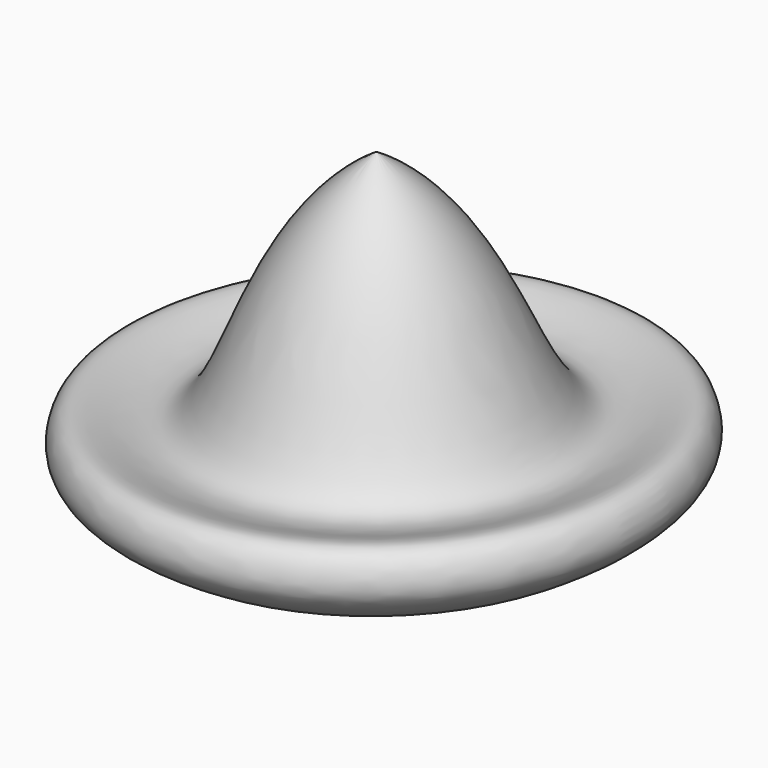
from build123d import *


with BuildPart() as f1:
    # F0 (on Front) → F1 (revolve)
    with BuildSketch(Plane.XZ):
        with BuildLine():
            add(Edge.make_bspline(
                [(0, -23.0682883412), (2.9600621081, -21.2210766133), (8.1676565667, -17.7040355615), (10.9255652139, -11.9218260223), (6.2252462725, -1.4354000769), (-20.6757946721, -22.3899729424), (-25.8116204706, 28.6395698145), (-52.5213629007, 43.3521196246)],
                knots=[0, 0, 0, 0, 0.1517340003, 0.2700807906, 0.4004474149, 0.6040741308, 1, 1, 1, 1], degree=3))
            Line((-52.5213629007, 43.3521196246), (-50.0539168715, -37.3613201082))
            Line((-50.0539168715, -37.3613201082), (0, -23.0682883412))
        make_face()
    revolve(axis=Axis((-51.2876398861, 0, 2.9953997582), (0.0305561734, 0, -0.9995330511)))


solid = f1.part
